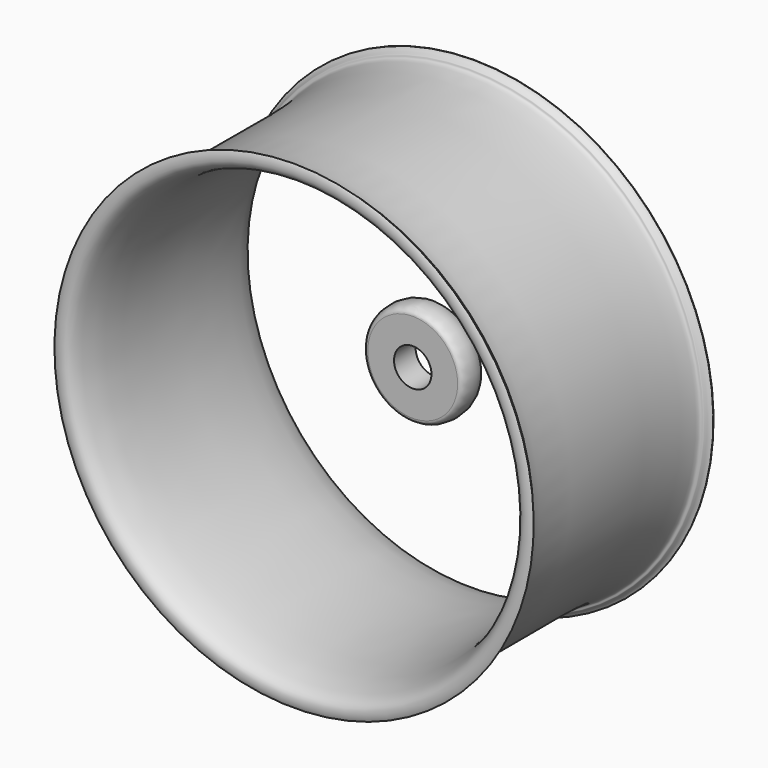
from build123d import *

# Parameters (mm, degrees)
F2_R     = 20.8428347487
F3_DEPTH = 25
F4_DEPTH = 50


with BuildPart() as f1:
    # F0 (on Right) → F1 (revolve)
    with BuildSketch(Plane.YZ):
        with BuildLine():
            add(Edge.make_bspline(
                [(-125, 266.7), (-123.8804779002, 264.4655485789), (-120.7963579196, 262.513183174), (-117.8057518151, 261.2766866739), (-119.321070282, 252.9243074247), (-54.7035742173, 251.4916356087), (0, 251.4916356087)],
                knots=[0, 0, 0, 0, 0.1492755289, 0.2473138233, 0.3479319839, 1, 1, 1, 1], degree=3))
            add(Edge.make_bspline(
                [(-125, 266.7), (-125.5058601487, 266.7128938376), (-126.3762770426, 265.9171995304), (-134.2512165674, 239.1599540113), (-58.1239303671, 234.1246302605), (0, 234.1246302605)],
                knots=[0, 0, 0, 0, 0.0706918561, 0.2939318387, 1, 1, 1, 1], degree=3))
            add(Edge.make_bspline(
                [(125, 266.7), (125.5058601487, 266.7128938376), (126.3762770426, 265.9171995304), (134.2512165674, 239.1599540113), (58.1239303671, 234.1246302605), (0, 234.1246302605)],
                knots=[0, 0, 0, 0, 0.0706918561, 0.2939318387, 1, 1, 1, 1], degree=3))
            add(Edge.make_bspline(
                [(125, 266.7), (123.8804779002, 264.4655485789), (120.7963579196, 262.513183174), (117.8057518151, 261.2766866739), (119.321070282, 252.9243074247), (54.7035742173, 251.4916356087), (0, 251.4916356087)],
                knots=[0, 0, 0, 0, 0.1492755289, 0.2473138233, 0.3479319839, 1, 1, 1, 1], degree=3))
        make_face()
    revolve(axis=Axis((0, 24.3405112997, 0), (0, 1, 0)))


with BuildPart() as f1b:
    # F0 (on Right) → F1, piece 2 (revolve)
    with BuildSketch(Plane.YZ):
        with BuildLine():
            Line((40, 0), (70, 0))
            Line((70, 0), (70, 50))
            add(Edge.make_bspline(
                [(40, 50), (40, 59.5976062863), (70, 59.5339378379), (70, 50)],
                knots=[0, 0, 0, 0, 30, 30, 30, 30], degree=3))
            Line((40, 50), (40, 0))
        make_face()
    revolve(axis=Axis((0, 24.3405112997, 0), (0, 1, 0)))

    # F2 (on face) → F3 (cut)
    with BuildSketch(Plane.XZ.offset(-40)):
        Circle(F2_R)
    extrude(amount=-F3_DEPTH, mode=Mode.SUBTRACT)

    # F4 (cut): a face of the model
    f4_faces = [f1b.faces().sort_by_distance(p)[0] for p in [
        (0, 65, 0),
    ]]
    extrude(f4_faces, amount=-F4_DEPTH, mode=Mode.SUBTRACT)


solid = Compound([f1.part, f1b.part])
